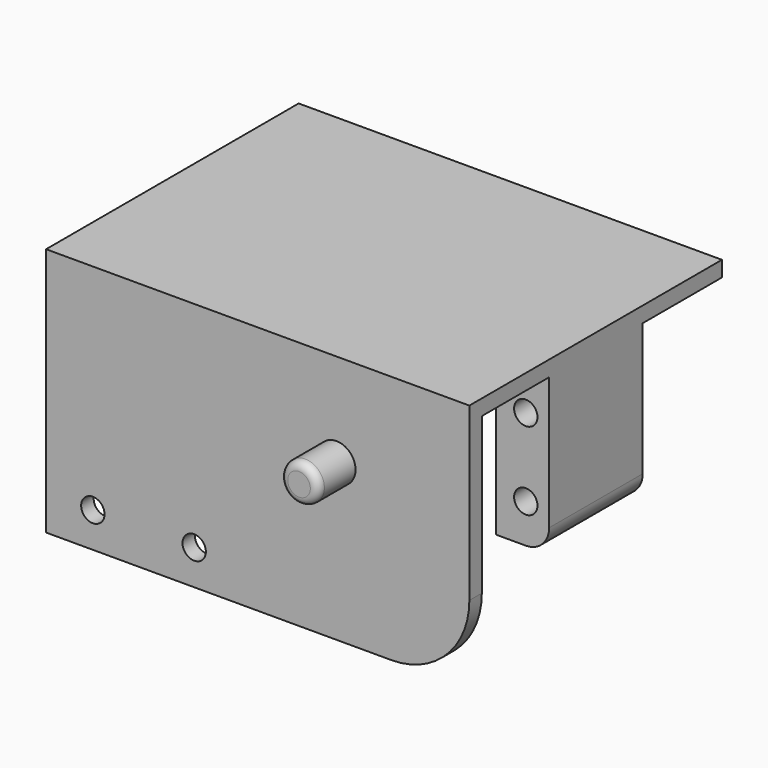
from build123d import *

# Parameters (mm, degrees)
SKETCH_W        = 54.3
SKETCH_H        = 38.5
PAD_DEPTH       = 2
SKETCH001_W     = 6.85
SKETCH001_H     = 15
PAD001_DEPTH    = 20
SKETCH002_R     = 1.5
POCKET_DEPTH    = 15
PAD002_DEPTH    = 2
FILLET_R        = 3
SKETCH004_R     = 2.45
PAD003_DEPTH    = 6
FILLET001_R     = 1
SKETCH005_R     = 1.5
POCKET001_DEPTH = 5


with BuildPart() as body:
    # Sketch → Pad (new body)
    with BuildSketch(Plane.XY):
        Rectangle(SKETCH_W, SKETCH_H)
    extrude(amount=PAD_DEPTH)

    # Sketch001 (on Face6 of Pad) → Pad001 (join)
    with BuildSketch(Plane.XY.offset(2)):
        with Locations((23.725, -0.95)):
            Rectangle(SKETCH001_W, SKETCH001_H)
        with Locations((-23.725, -0.95)):
            Rectangle(SKETCH001_W, SKETCH001_H)
    extrude(amount=PAD001_DEPTH)

    # Sketch002 (on Face11 of Pad001) → Pocket (cut)
    with BuildSketch(Plane.XZ.offset(8.45)):
        with Locations((24.15, 17)):
            Circle(SKETCH002_R)
        with Locations((24.15, 7)):
            Circle(SKETCH002_R)
        with Locations((-24.15, 17)):
            Circle(SKETCH002_R)
        with Locations((-24.15, 7)):
            Circle(SKETCH002_R)
    extrude(amount=-POCKET_DEPTH, mode=Mode.SUBTRACT)

    # Sketch003 (on Face6 of Pocket) → Pad002 (join)
    with BuildSketch(Plane.XZ.offset(19.25)):
        with BuildLine():
            Line((-27.15, 0), (27.15, 0))
            Line((27.15, 0), (27.15, 22))
            ThreePointArc((27.15, 22), (24.221068, 29.071068), (17.15, 32))
            Line((17.15, 32), (-27.15, 32))
            Line((-27.15, 32), (-27.15, 0))
        make_face()
    extrude(amount=PAD002_DEPTH)

    # Fillet
    fillet_edges = [body.edges().sort_by_distance(p)[0] for p in [
        (27.15, -0.95, 22),
    ]]
    fillet(fillet_edges, radius=FILLET_R)

    # Sketch004 (on Face21 of Fillet) → Pad003 (join)
    with BuildSketch(Plane.XZ.offset(21.25)):
        with Locations((10.1, 12)):
            Circle(SKETCH004_R)
    extrude(amount=PAD003_DEPTH)

    # Fillet001
    fillet001_edges = [body.edges().sort_by_distance(p)[0] for p in [
        (7.65, -27.25, 12),
    ]]
    fillet(fillet001_edges, radius=FILLET001_R)

    # Sketch005 (on Face3 of Fillet001) → Pocket001 (cut)
    with BuildSketch(Plane.XZ.offset(21.25)):
        with Locations((-21.15, 27.5)):
            Circle(SKETCH005_R)
        with Locations((-8.15, 27.5)):
            Circle(SKETCH005_R)
    extrude(amount=-POCKET001_DEPTH, mode=Mode.SUBTRACT)


with BuildPart() as part_mirroring:
    # Part__Mirroring: instance of Body
    add(body.part.mirror(Plane(origin=(0, 0, 0), x_dir=(0, 1, 0), z_dir=(0, 0, 1))))


solid = part_mirroring.part
